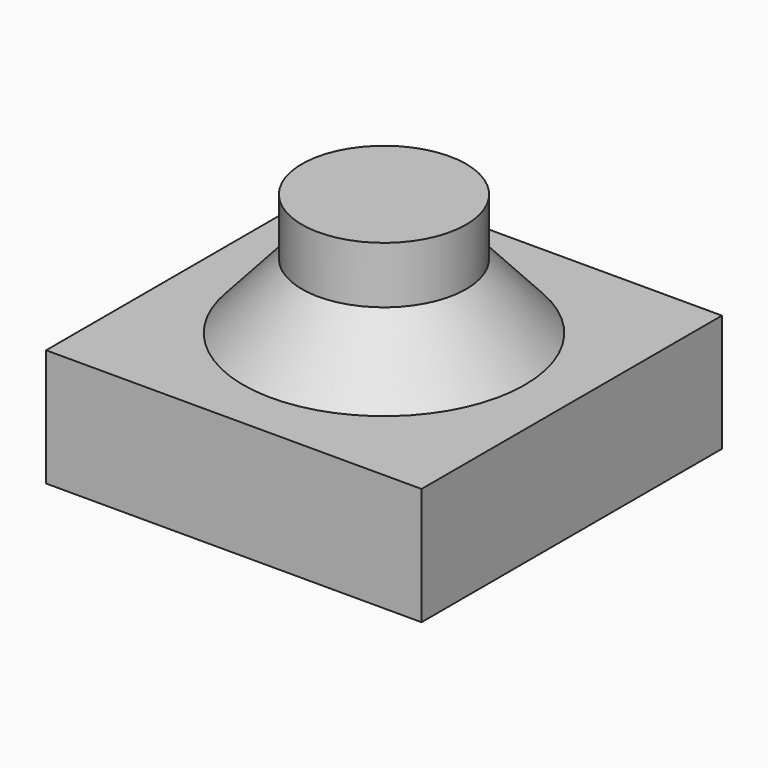
from build123d import *

# Parameters (mm, degrees)
F0_W     = 8
F0_H     = 8
F1_DEPTH = 2.5


with BuildPart() as f1:
    # F0 (on Top) → F1 (new body)
    with BuildSketch(Plane.XY):
        Rectangle(F0_W, F0_H)
    extrude(amount=F1_DEPTH)

    # F2 (on Front) → F3 (revolve)
    with BuildSketch(Plane.XZ):
        Polygon((0, 5.1), (0, 2.5), (3, 2.5), (1.75, 3.89), (1.75, 5.1), align=None)
    revolve(axis=Axis((0, 0, 3.8), (0, 0, 1)))


solid = f1.part
